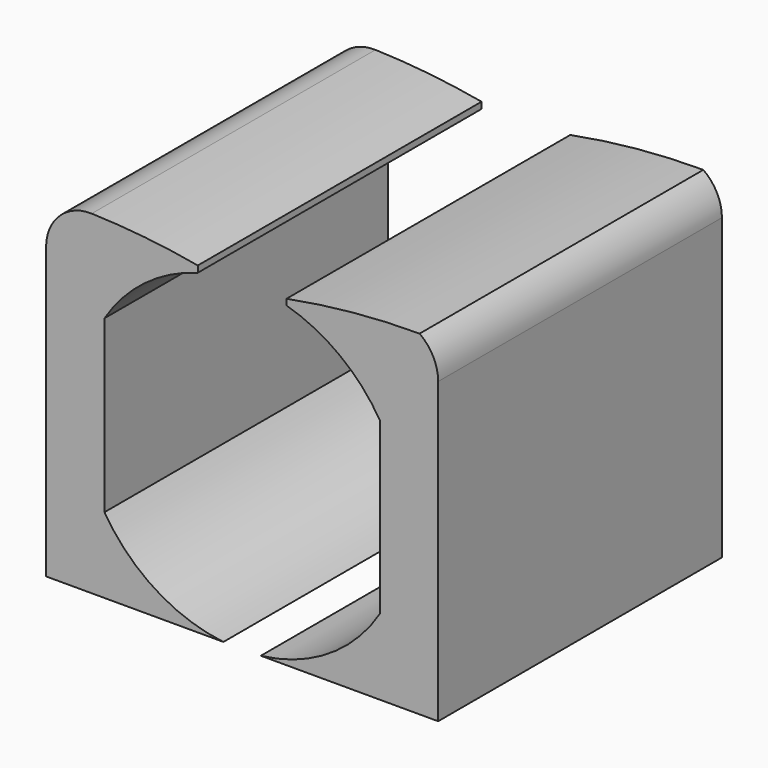
from build123d import *

# Parameters (mm, degrees)
F1_DEPTH = 50.8


with BuildPart() as f1:
    # F0 (on Front) → F1 (new body, symmetric)
    with BuildSketch(Plane.XZ):
        with BuildLine():
            Line((-56.158637, 29.78059), (-56.158637, -53.271118))
            Line((-56.158637, -53.271118), (-5.358637, -53.271118))
            ThreePointArc((-5.358637, -53.271118), (-24.869351, -46.353357), (-39.429359, -31.638414))
            Line((-39.429359, -31.638414), (-39.429359, 17.268347))
            ThreePointArc((-39.429359, 17.268347), (-27.947929, 29.849483), (-12.7, 37.439535))
            Line((-12.7, 37.439535), (-12.7, 39.280263))
            ThreePointArc((-12.7, 39.280263), (-27.831789, 41.4495), (-43.083833, 42.475058))
            ThreePointArc((-43.083833, 42.475058), (-52.305388, 38.892396), (-56.158637, 29.78059))
        make_face()
        with BuildLine():
            ThreePointArc((39.463547, -31.583202), (24.896756, -46.335943), (5.358637, -53.271118))
            Line((5.358637, -53.271118), (56.158637, -53.271118))
            Line((56.158637, -53.271118), (56.158637, 32.415154))
            ThreePointArc((56.158637, 32.415154), (54.749163, 38.230137), (50.833595, 42.7544))
            ThreePointArc((50.833595, 42.7544), (31.681539, 41.849824), (12.7, 39.144151))
            Line((12.7, 39.144151), (12.7, 37.439535))
            ThreePointArc((12.7, 37.439535), (27.97384, 29.829915), (39.463547, 17.213135))
            Line((39.463547, 17.213135), (39.463547, -31.583202))
        make_face()
    extrude(amount=F1_DEPTH, both=True)


solid = f1.part
